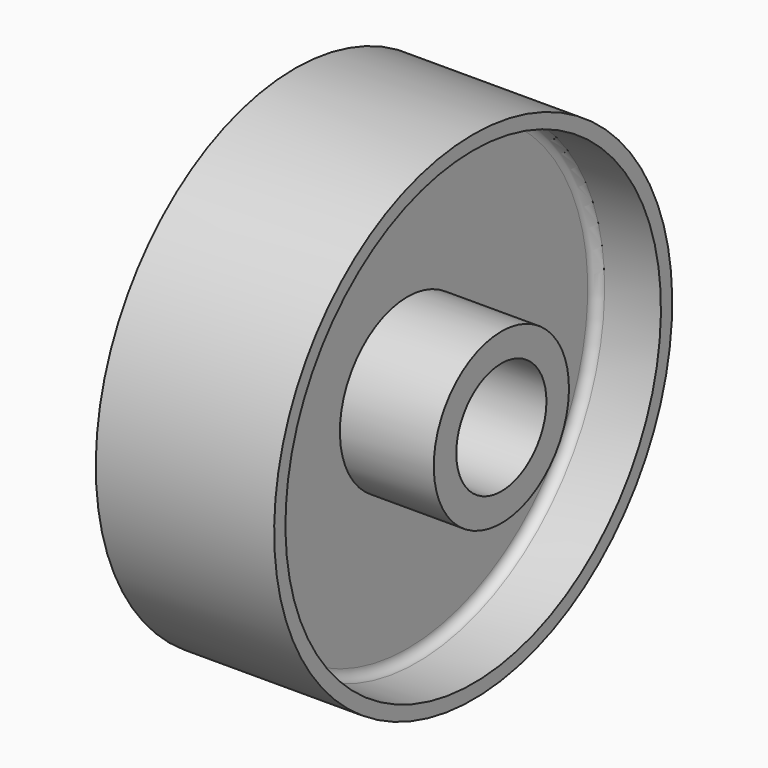
from build123d import *

# Parameters (mm, degrees)
F2_R = 2


with BuildPart() as f1:
    # F0 (on Front) → F1 (revolve)
    with BuildSketch(Plane.XZ):
        Polygon((38, 0), (0, 0), (0, -3), (12.181578204, -3), (14, -3), (14, -35), (-6, -35), (-6, -41), (44, -41), (44, -35), (24, -35), (24, -3), (38, -3), align=None)
    revolve(axis=Axis((16.9901512563, 0, -53), (1, 0, 0)))

    # F2
    f2_edges = [f1.edges().sort_by_distance(p)[0] for p in [
        (14, 0, -103),
        (24, 0, -103),
    ]]
    fillet(f2_edges, radius=F2_R)


solid = f1.part
